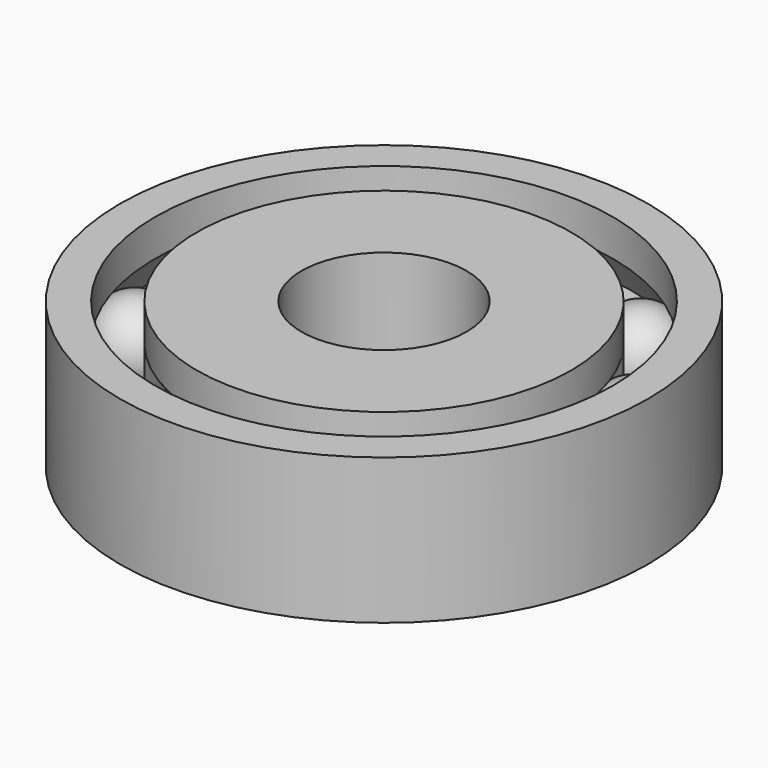
from build123d import *

# Parameters (mm, degrees)
ARRAY_COUNT       = 10
TORUS_R           = 2
CYLINDER002_R     = 3.96875
CYLINDER002_DEPTH = 7
CYLINDER003_R     = 9
CYLINDER003_DEPTH = 7
CYLINDER001_R     = 11
CYLINDER001_DEPTH = 7
CYLINDER_R        = 12.7
CYLINDER_DEPTH    = 7


with BuildPart() as array:
    # Sphere → Sphere (revolve)
    with BuildSketch(Plane(origin=(0, 10, 3.5), x_dir=(1, 0, 0), z_dir=(0, -1, 0))):
        with BuildLine():
            ThreePointArc((0, -2), (2, 0), (0, 2))
            Line((0, 2), (0, -2))
        make_face()
    revolve(axis=Axis((0, 10, 3.5), (0, 0, 1)))

    # Array: Array ×10 about axis
    array_axis = Axis((0, 0, 0), (0, 0, 1))


with BuildPart() as array_1:
    add(array.part)
    for i in range(1, ARRAY_COUNT):
        add(array.part.rotate(array_axis, i * 360 / ARRAY_COUNT))


with BuildPart() as toro:
    # Torus → Torus (revolve)
    with BuildSketch(Plane(origin=(0, 0, 3.5), x_dir=(1, 0, 0), z_dir=(0, -1, 0))):
        with Locations((10, 0)):
            Circle(TORUS_R)
    revolve(axis=Axis((0, 0, 3.5), (0, 0, 1)))


with BuildPart() as cilindro002:
    # Cylinder002 → Cylinder002 (new body)
    with BuildSketch(Plane.XY):
        Circle(CYLINDER002_R)
    extrude(amount=CYLINDER002_DEPTH)


with BuildPart() as cut001:
    # Cylinder003 → Cylinder003 (new body)
    with BuildSketch(Plane.XY):
        Circle(CYLINDER003_R)
    extrude(amount=CYLINDER003_DEPTH)

    # Cut001: cut Cilindro002
    add(cilindro002.part, mode=Mode.SUBTRACT)


with BuildPart() as cilindro001:
    # Cylinder001 → Cylinder001 (new body)
    with BuildSketch(Plane.XY):
        Circle(CYLINDER001_R)
    extrude(amount=CYLINDER001_DEPTH)


with BuildPart() as fusion001:
    # Cylinder → Cylinder (new body)
    with BuildSketch(Plane.XY):
        Circle(CYLINDER_R)
    extrude(amount=CYLINDER_DEPTH)

    # Cut: cut Cilindro001
    add(cilindro001.part, mode=Mode.SUBTRACT)

    # Fusion: union Cut001
    add(cut001.part)

    # Cut002: cut Toro
    add(toro.part, mode=Mode.SUBTRACT)

    # Fusion001: union Array
    add(array_1.part)


solid = fusion001.part
